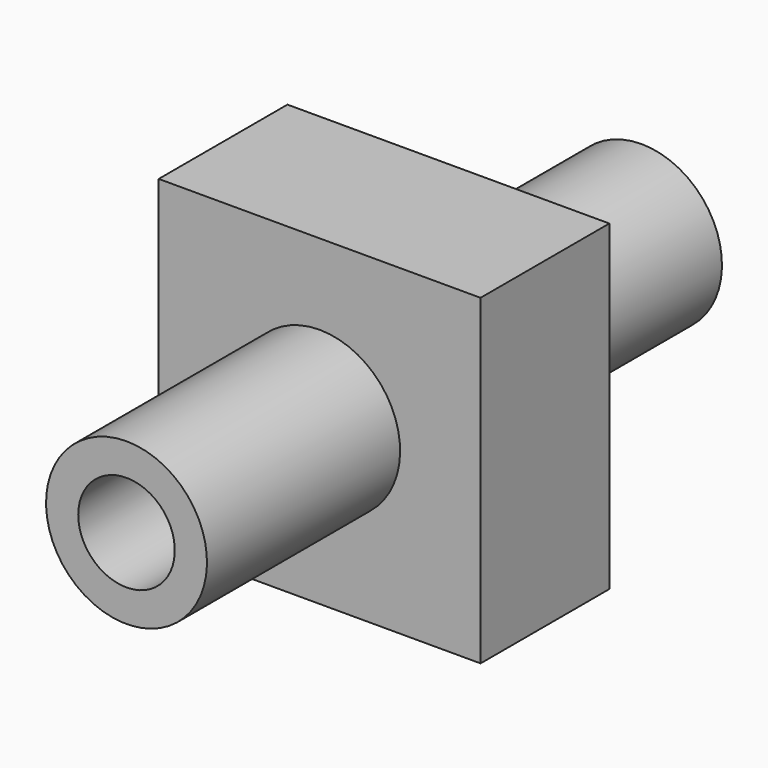
from build123d import *

# Parameters (mm, degrees)
F0_W     = 100
F0_H     = 100
F1_DEPTH = 50
F2_W     = 200
F2_H     = 25
F5_D     = 30


with BuildPart() as f1:
    # F0 (on Front) → F1 (new body)
    with BuildSketch(Plane.XZ):
        Rectangle(F0_W, F0_H)
    extrude(amount=-F1_DEPTH)

    # F2 (on Right) → F3 (revolve)
    with BuildSketch(Plane.YZ):
        with Locations((25, 12.5)):
            Rectangle(F2_W, F2_H)
    revolve(axis=Axis((0, 49.7826111294, 0), (0, 1, 0)))

    # F5 (through all)
    with Locations(Plane.XZ.offset(75)):
        with Locations((0, 0)):
            Hole(F5_D / 2)


solid = f1.part
